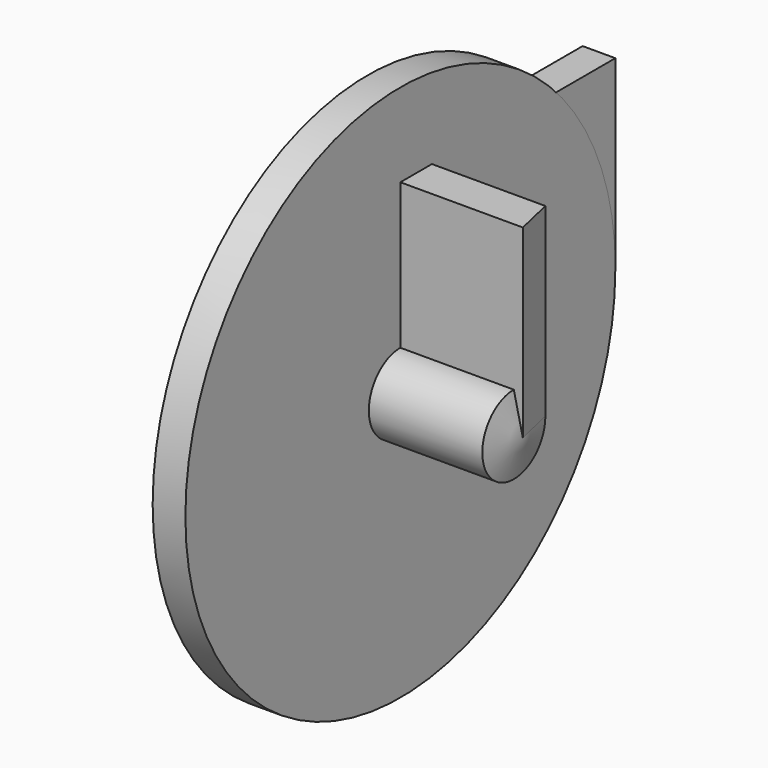
from build123d import *

# Parameters (mm, degrees)
F1_DEPTH = 81.026


with BuildPart() as f1:
    # F0 (on Top) → F1 (new body)
    with BuildSketch(Plane.XY):
        Polygon((-41.76428, 62.808446), (-56.09592, 62.808446), (-56.09592, -54.846772), (11.84716, -54.846772), (7.914797, -37.584991), (-41.76428, -37.584991), align=None)
    extrude(amount=F1_DEPTH)


with BuildPart() as f2:
    # F0 (on Top) → F2 (revolve)
    with BuildSketch(Plane.XY):
        Polygon((-41.76428, 62.808446), (-56.09592, 62.808446), (-56.09592, -54.846772), (11.84716, -54.846772), (7.914797, -37.584991), (-41.76428, -37.584991), align=None)
    revolve(axis=Axis((-22.12438, -54.846772, 0), (1, 0, 0)))


solid = Compound([f1.part, f2.part])
